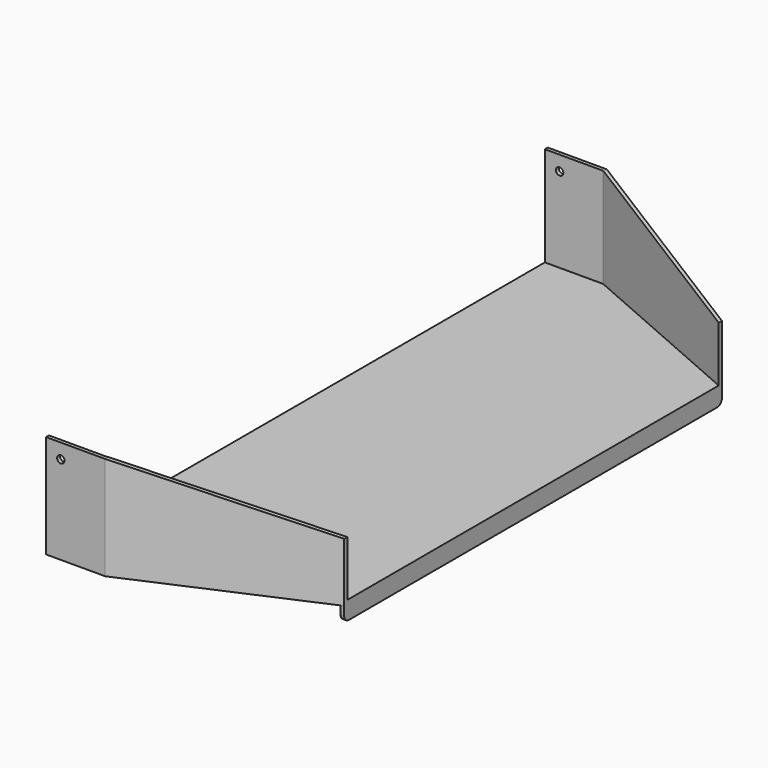
from build123d import *

# Parameters (mm, degrees)
F1_DEPTH = 177.8
F2_T     = -6.35
F3_R     = 6.35
F4_DEPTH = 1079.501
F5_W     = 6.35
F5_H     = 812.8
F6_DEPTH = 25.4
F8_R     = 10.16
F9_DEPTH = 1079.501


with BuildPart() as f1:
    # F0 (on Top) → F1 (new body)
    with BuildSketch(Plane.XY):
        Polygon((0, 1079.5), (0, 0), (101.6, 0), (406.4, 133.35), (406.4, 539.75), (406.4, 946.15), (101.6, 1079.5), align=None)
    extrude(amount=F1_DEPTH)

    # F2
    f2_openings = [f1.faces().sort_by_distance(p)[0] for p in [
        (192.825932, 539.75, 177.8),
        (0, 539.75, 88.9),
        (406.4, 539.75, 88.9),
    ]]
    offset(amount=F2_T, openings=f2_openings)

    # F3 (on face) → F4 (cut, through all)
    with BuildSketch(Plane.XZ):
        with Locations((25.4, 152.4)):
            Circle(F3_R)
    extrude(amount=-F4_DEPTH, mode=Mode.SUBTRACT)

    # F5 (on face) → F6 (join)
    with BuildSketch(Plane(origin=(0, 0, 0), x_dir=(1, 0, 0), z_dir=(0, 0, -1))):
        with Locations((403.225, -539.75)):
            Rectangle(F5_W, F5_H)
    extrude(amount=F6_DEPTH)

    # F8
    f8_edges = [f1.edges().sort_by_distance(p)[0] for p in [
        (403.225, 133.35, -25.4),
        (403.225, 946.15, -25.4),
    ]]
    fillet(f8_edges, radius=F8_R)

    # F7 (on Front) → F9 (cut, through all)
    with BuildSketch(Plane.XZ):
        Polygon((406.4, 101.6), (406.4, 177.8), (101.6, 177.8), align=None)
    extrude(amount=-F9_DEPTH, mode=Mode.SUBTRACT)


solid = f1.part
